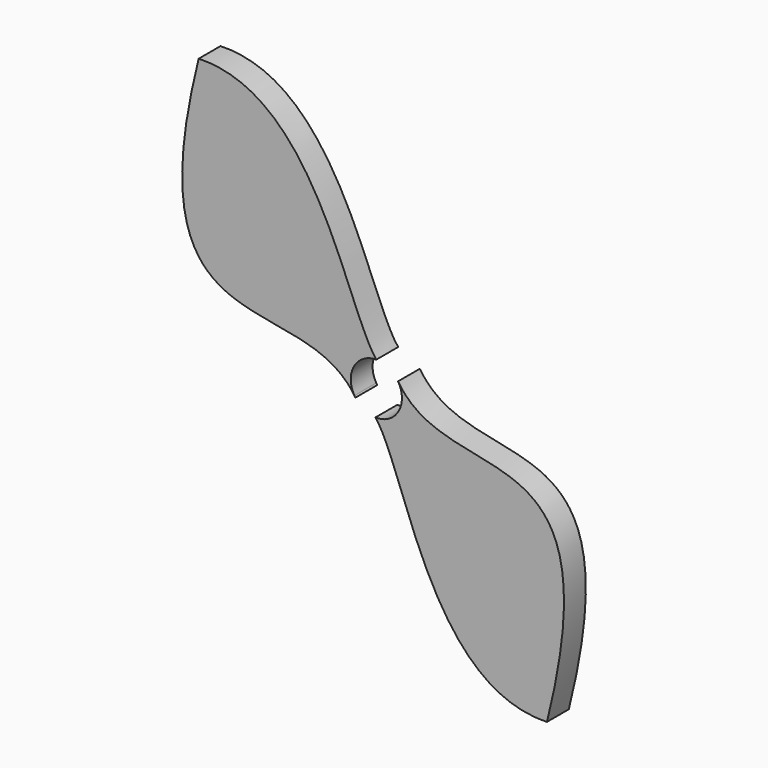
from build123d import *

# Parameters (mm, degrees)
F1_DEPTH = 2.54


with BuildPart() as f1:
    # F0 (on Front) → F1 (new body)
    with BuildSketch(Plane.XZ):
        with BuildLine():
            ThreePointArc((-20.074885, 18.229861), (-20.109369, 20.630582), (-18.03584, 21.841008))
            add(Edge.make_bspline(
                [(-18.03584, 21.841008), (-20.872474, 25.352406), (-23.711583, 41.488953), (-34.571076, 41.121723)],
                knots=[0, 0, 0, 0, 25.4, 25.4, 25.4, 25.4], degree=3))
            add(Edge.make_bspline(
                [(-34.571076, 41.121723), (-41.082308, 15.120087), (-25.045967, 25.635282), (-20.074885, 18.229861)],
                knots=[0, 0, 0, 0, 27.094619, 27.094619, 27.094619, 27.094619], degree=3))
        make_face()
        with BuildLine():
            add(Edge.make_bspline(
                [(-20.074885, 18.229861), (-20.044033, 18.1839), (-20.013606, 18.137249), (-19.983614, 18.089894)],
                knots=[27.094619, 27.094619, 27.094619, 27.094619, 27.26278, 27.26278, 27.26278, 27.26278], degree=3))
            ThreePointArc((-20.074885, 18.229861), (-20.030478, 18.159077), (-19.983614, 18.089894))
        make_face()
        with BuildLine():
            add(Edge.make_bspline(
                [(-2.154803, -2.676631), (4.385332, 23.440424), (-11.124635, 13.120344), (-16.015994, 20.720937)],
                knots=[0, 0, 0, 0, 27.195118, 27.195118, 27.195118, 27.195118], degree=3))
            ThreePointArc((-16.015994, 20.720937), (-15.746723, 20.115728), (-15.65459, 19.459758))
            ThreePointArc((-15.65459, 19.459758), (-16.381505, 17.747003), (-18.118446, 17.079941))
            add(Edge.make_bspline(
                [(-18.118446, 17.079941), (-15.281812, 13.568543), (-13.014296, -3.04386), (-2.154803, -2.676631)],
                knots=[0, 0, 0, 0, 25.4, 25.4, 25.4, 25.4], degree=3))
        make_face()
    extrude(amount=F1_DEPTH)


solid = f1.part
